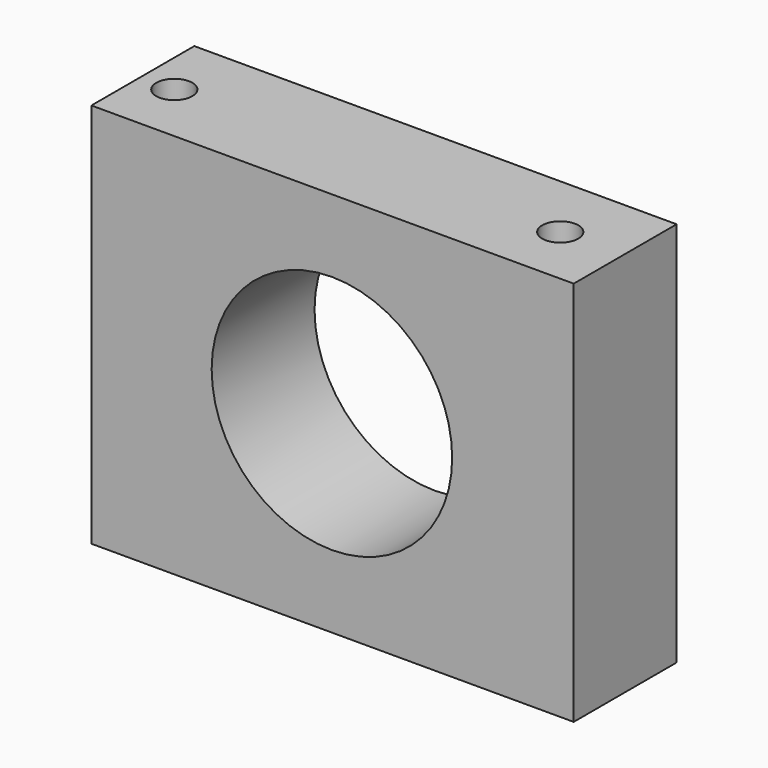
from build123d import *

# Parameters (mm, degrees)
F0_W     = 95.25
F0_H     = 76.2
F0_R     = 23.749
F1_DEPTH = 25.4
F2_R     = 3.5687
F3_DEPTH = 76.201


with BuildPart() as f1:
    # F0 (on Front) → F1 (new body)
    with BuildSketch(Plane.XZ):
        with Locations((0.127, 0)):
            Rectangle(F0_W, F0_H)
        Circle(F0_R, mode=Mode.SUBTRACT)
    extrude(amount=F1_DEPTH)

    # F2 (on face) → F3 (cut, through all)
    with BuildSketch(Plane.XY.offset(38.1)):
        with Locations((-40.8521, -13.241615)):
            Circle(F2_R)
        with Locations((35.3479, -13.219297)):
            Circle(F2_R)
    extrude(amount=-F3_DEPTH, mode=Mode.SUBTRACT)


solid = f1.part
